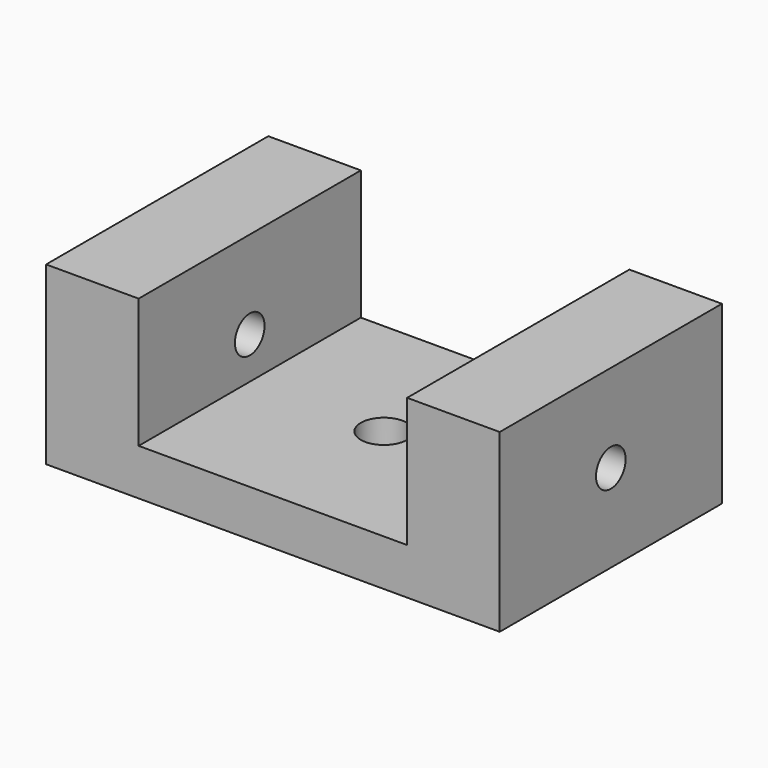
from build123d import *

# Parameters (mm, degrees)
F0_W     = 29
F0_H     = 30
F0_R     = 2.5
F1_DEPTH = 5
F0_W_2   = 10
F2_DEPTH = 19
F3_DEPTH = 19
F4_R     = 2
F5_DEPTH = 49.001


with BuildPart() as f1:
    # F0 (on Top) → F1 (new body)
    with BuildSketch(Plane.XY):
        Rectangle(F0_W, F0_H)
        Circle(F0_R, mode=Mode.SUBTRACT)
    extrude(amount=F1_DEPTH)

    # F0 (on Top) → F2 (join)
    with BuildSketch(Plane.XY):
        with Locations((-19.5, 0)):
            Rectangle(F0_W_2, F0_H)
    extrude(amount=F2_DEPTH)

    # F0 (on Top) → F3 (join)
    with BuildSketch(Plane.XY):
        with Locations((19.5, 0)):
            Rectangle(F0_W_2, F0_H)
    extrude(amount=F3_DEPTH)

    # F4 (on face) → F5 (cut, through all)
    with BuildSketch(Plane.YZ.offset(24.5)):
        with Locations((0, 9.5)):
            Circle(F4_R)
    extrude(amount=-F5_DEPTH, mode=Mode.SUBTRACT)


solid = f1.part
